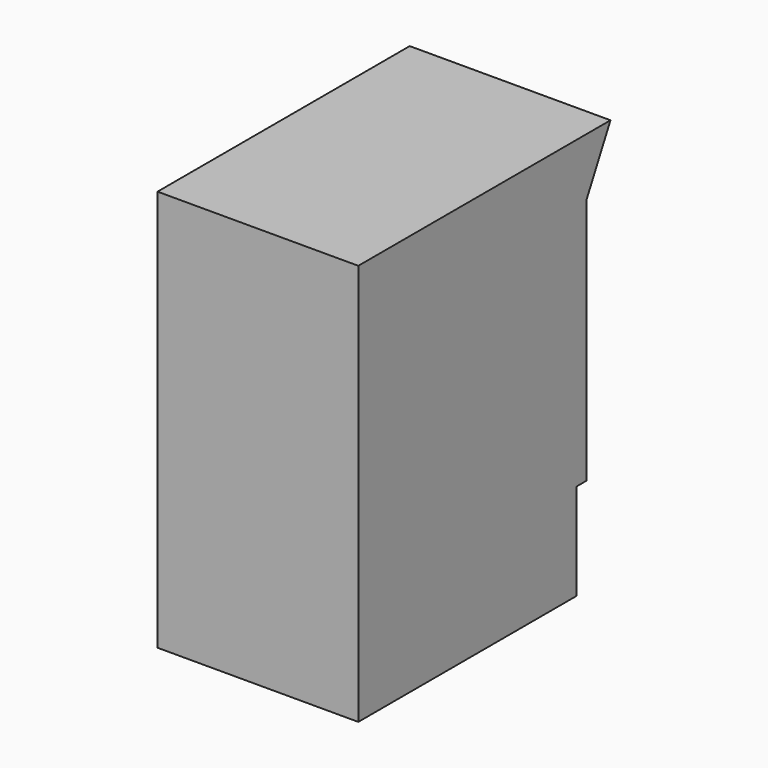
from build123d import *

# Parameters (mm, degrees)
F1_DEPTH  = 1000
F2_W      = 880
F2_H      = 1160
F3_DEPTH  = 795
F5_DEPTH  = 1000
F6_R      = 100
F7_DEPTH  = 60
F8_R      = 35
F9_DEPTH  = 60
F10_R     = 12.5
F11_DEPTH = 590


with BuildPart() as f1:
    # F0 (on Right) → F1 (new body)
    with BuildSketch(Plane.YZ):
        Polygon((710, 1000), (-710, 1000), (-710, -1000), (650, -1000), (650, -520), (710, -520), align=None)
    extrude(amount=-F1_DEPTH)

    # F2 (on face) → F3 (cut)
    with BuildSketch(Plane(origin=(0, 710, 0), x_dir=(-1, 0, 0), z_dir=(0, 1, 0))):
        with Locations((500, 120)):
            Rectangle(F2_W, F2_H)
    extrude(amount=-F3_DEPTH, mode=Mode.SUBTRACT)

    # F4 (on face) → F5 (join, through all)
    with BuildSketch(Plane(origin=(-1000, 0, 0), x_dir=(0, -1, 0), z_dir=(-1, 0, 0))):
        Polygon((-710, 710), (-710, 1000), (-860, 1000), align=None)
    extrude(amount=-F5_DEPTH)

    # F6 (on face) → F7 (join)
    with BuildSketch(Plane(origin=(0, -85, 0), x_dir=(-1, 0, 0), z_dir=(0, 1, 0))):
        with Locations((735.730886, 496.748427)):
            Circle(F6_R)
        with Locations((735.730886, 120)):
            Circle(F6_R)
        with Locations((735.730886, -270.26796)):
            Circle(F6_R)
        with Locations((264.269114, 496.748427)):
            Circle(F6_R)
        with Locations((264.269114, 120)):
            Circle(F6_R)
        with Locations((264.269114, -270.26796)):
            Circle(F6_R)
    extrude(amount=F7_DEPTH)

    # F8 (on face) → F9 (join)
    with BuildSketch(Plane(origin=(0, -25, 0), x_dir=(-1, 0, 0), z_dir=(0, 1, 0))):
        with Locations((735.730886, 496.748427)):
            Circle(F8_R)
        with Locations((735.730886, 120)):
            Circle(F8_R)
        with Locations((735.730886, -270.26796)):
            Circle(F8_R)
        with Locations((264.269114, -270.26796)):
            Circle(F8_R)
        with Locations((264.269114, 120)):
            Circle(F8_R)
        with Locations((264.269114, 496.748427)):
            Circle(F8_R)
    extrude(amount=F9_DEPTH)

    # F10 (on face) → F11 (join)
    with BuildSketch(Plane(origin=(0, 35, 0), x_dir=(-1, 0, 0), z_dir=(0, 1, 0))):
        with Locations((735.730886, 496.748427)):
            Circle(F10_R)
        with Locations((735.730886, 120)):
            Circle(F10_R)
        with Locations((735.730886, -270.26796)):
            Circle(F10_R)
        with Locations((264.269114, -270.26796)):
            Circle(F10_R)
        with Locations((264.269114, 120)):
            Circle(F10_R)
        with Locations((264.269114, 496.748427)):
            Circle(F10_R)
    extrude(amount=F11_DEPTH)


solid = f1.part
